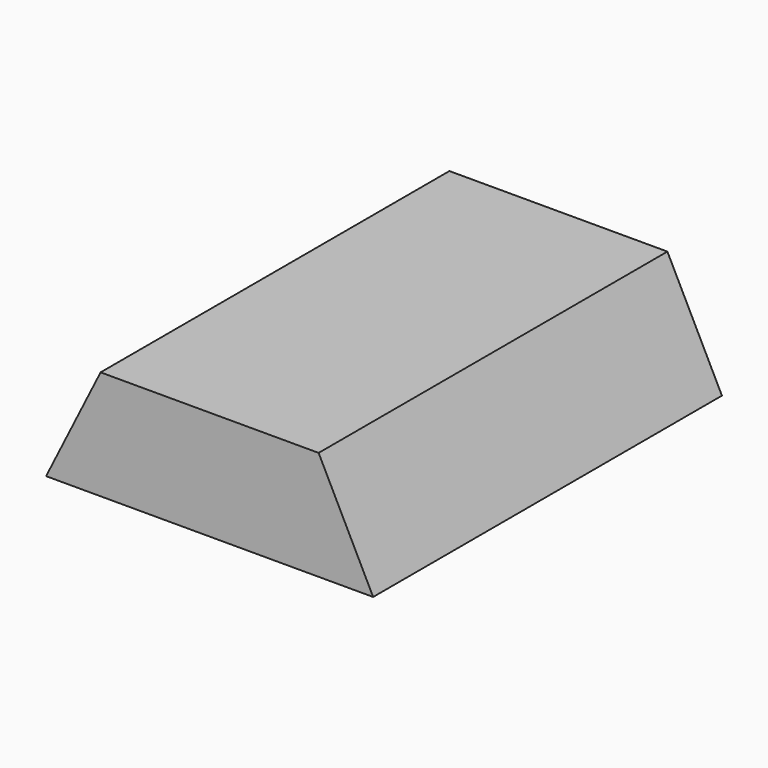
from build123d import *

# Parameters (mm, degrees)
PAD_DEPTH            = 80
BODY_PLACEMENT_ANGLE = 90


with BuildPart() as part:
    # Sketch → Pad (new body)
    with BuildSketch(Plane.XY):
        Polygon((-19.836794, 20.022455), (20.173578, 20.022455), (30.17617, 0), (-29.839388, 0), align=None)
    extrude(amount=PAD_DEPTH)


with BuildPart() as part_1:
    # Body placement: moved
    add(part.part.rotate(Axis((0, 0, 0), (1, 0, 0)), BODY_PLACEMENT_ANGLE))


solid = part_1.part
